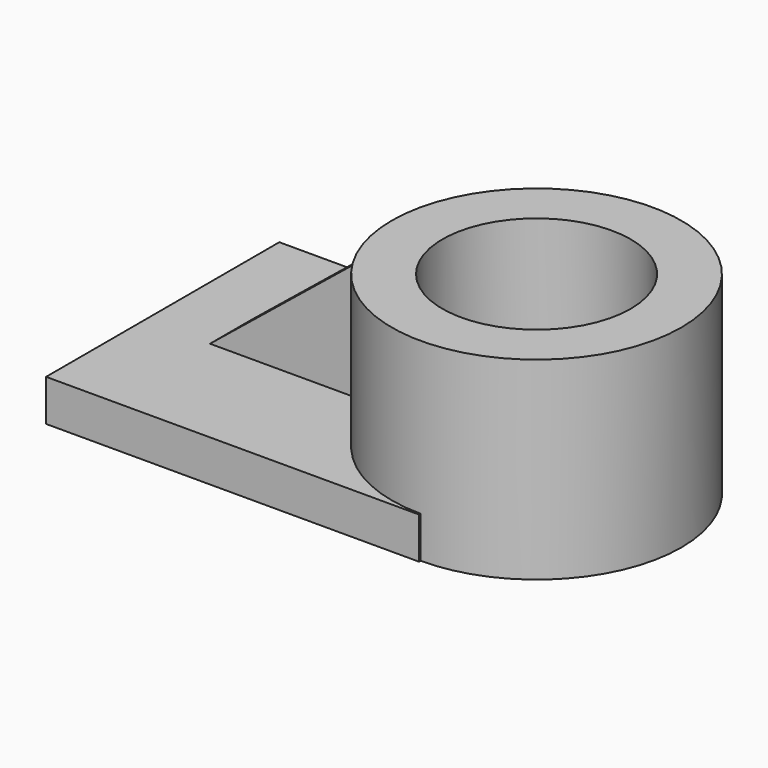
from build123d import *

# Parameters (mm, degrees)
F0_R     = 15.9511244513
F1_DEPTH = 21.336
F4_DEPTH = 4.572
F5_W     = 23.5527278855
F5_H     = 5.7727247477
F6_DEPTH = 19.304
F8_DEPTH = 62.23
F2_R     = 10.3729315348
F9_DEPTH = 46.99


with BuildPart() as f1:
    # F0 (on Top) → F1 (new body)
    with BuildSketch(Plane.XY):
        with Locations((31.4036346972, 31.5190926194)):
            Circle(F0_R)
    extrude(amount=F1_DEPTH)

    # F3 (on face) → F4 (join)
    with BuildSketch(Plane(origin=(0, 0, 0), x_dir=(1, 0, 0), z_dir=(0, 0, -1))):
        with BuildLine():
            Line((-9.6981814131, -47.4702170707), (31.4036346972, -47.4702170707))
            ThreePointArc((31.4036346972, -47.4702170707), (15.4525102459, -31.5190926194), (31.4036346972, -15.5679681681))
            Line((31.4036346972, -15.5679681681), (31.4036346972, -15.3554547578))
            Line((31.4036346972, -15.3554547578), (-9.6981814131, -15.3554547578))
            Line((-9.6981814131, -15.3554547578), (-9.6981814131, -47.4702170707))
        make_face()
    extrude(amount=-F4_DEPTH)

    # F5 (on face) → F6 (join)
    with BuildSketch(Plane(origin=(0, 0, 0), x_dir=(1, 0, 0), z_dir=(0, 0, -1))):
        with Locations((9.2363632284, -31.8654552102)):
            Rectangle(F5_W, F5_H)
    extrude(amount=-F6_DEPTH)

    # F7 (on face) → F8 (cut)
    with BuildSketch(Plane.XZ.offset(-28.9790928364)):
        Polygon((-2.5400007144, 19.304), (-2.5400007144, 4.572), (15.6560389326, 19.304), align=None)
    extrude(amount=-F8_DEPTH, mode=Mode.SUBTRACT)

    # F2 (on face) → F9 (cut)
    with BuildSketch(Plane.XY.offset(21.336)):
        with Locations((31.4036346972, 31.5190926194)):
            Circle(F2_R)
    extrude(amount=-F9_DEPTH, mode=Mode.SUBTRACT)


solid = f1.part
